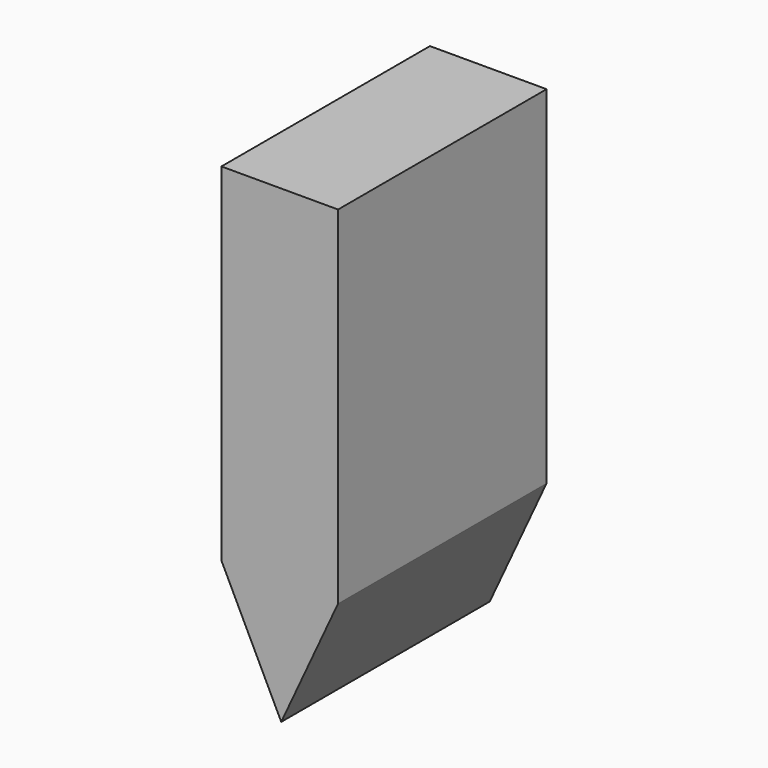
from build123d import *

# Parameters (mm, degrees)
F2_DEPTH = 25.4


with BuildPart() as f2:
    # F1 (on face) → F2 (new body)
    with BuildSketch(Plane.XZ):
        Polygon((-15.739672, 6.558197), (-15.739672, 40.369343), (-27.107213, 40.369343), (-27.107213, 6.558197), (-21.277705, -5.392295), align=None)
    extrude(amount=F2_DEPTH)


solid = f2.part
